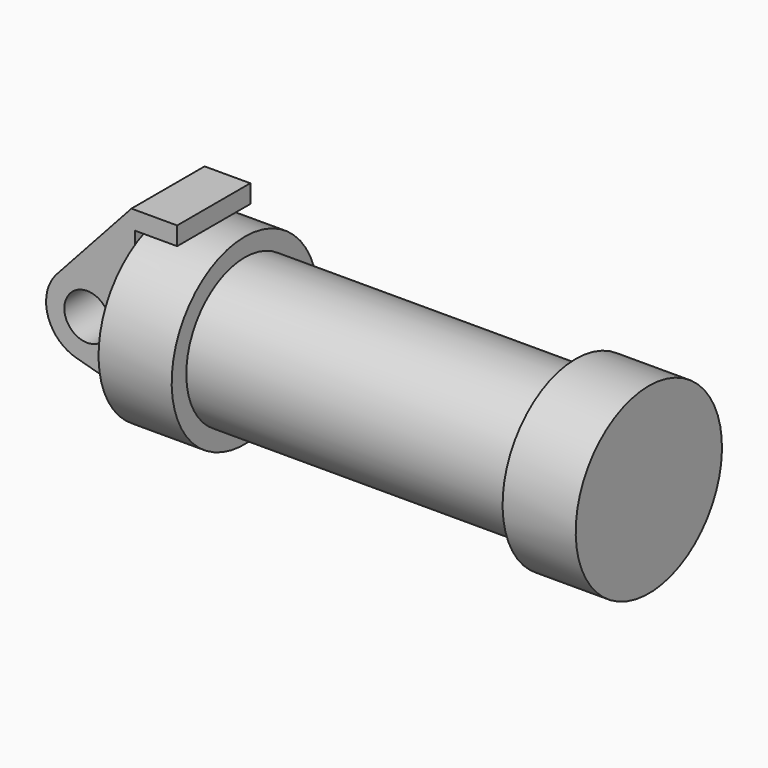
from build123d import *

# Parameters (mm, degrees)
F0_W          = 5.842
F0_H          = 12.7
F0_R          = 3.175
F2_DEPTH      = 6.35
F2_DEPTH_BACK = 6.35


with BuildPart() as f1:
    # F0 (on Front) → F1 (revolve)
    with BuildSketch(Plane.XZ):
        Polygon((5.842, 12.7), (5.842, 0), (66.294, 0), (66.294, 12.7), (56.134, 12.7), (56.134, 10.16), (10.16, 10.16), (10.16, 12.7), align=None)
        with Locations((2.921, 6.35)):
            Rectangle(F0_W, F0_H)
    revolve(axis=Axis((33.147, 0, 0), (-1, 0, 0)))


with BuildPart() as f2:
    # F0 (on Front) → F2 (new body, two sides)
    with BuildSketch(Plane.XZ) as f2_sk:
        with BuildLine():
            Line((-0.9398, 0), (0, 0))
            Line((0, 0), (0, 12.7))
            Line((0, 12.7), (5.842, 12.7))
            Line((5.842, 12.7), (5.842, 15.24))
            Line((5.842, 15.24), (-0.508, 15.24))
            Line((-0.508, 15.24), (-10.88063, 3.847543))
            ThreePointArc((-10.88063, 3.847543), (-4.591961, 5.329721), (-0.9398, 0))
        make_face()
        with BuildLine():
            ThreePointArc((-8.182663, -5.506983), (-3.195791, -4.549339), (-0.9398, 0))
            ThreePointArc((-0.9398, 0), (-4.591961, 5.329721), (-10.88063, 3.847543))
            ThreePointArc((-10.88063, 3.847543), (-12.145978, -1.583727), (-8.182663, -5.506983))
        make_face()
        with Locations((-6.6548, 0)):
            Circle(F0_R, mode=Mode.SUBTRACT)
        with BuildLine():
            Line((5.842, 0), (0, 0))
            Line((0, 0), (-0.9398, 0))
            ThreePointArc((-0.9398, 0), (-3.195791, -4.549339), (-8.182663, -5.506983))
            Line((-8.182663, -5.506983), (5.842, -9.398))
            Line((5.842, -9.398), (5.842, 0))
        make_face()
    extrude(amount=F2_DEPTH)
    extrude(f2_sk.sketch, amount=-F2_DEPTH_BACK)


solid = Compound([f1.part, f2.part])
